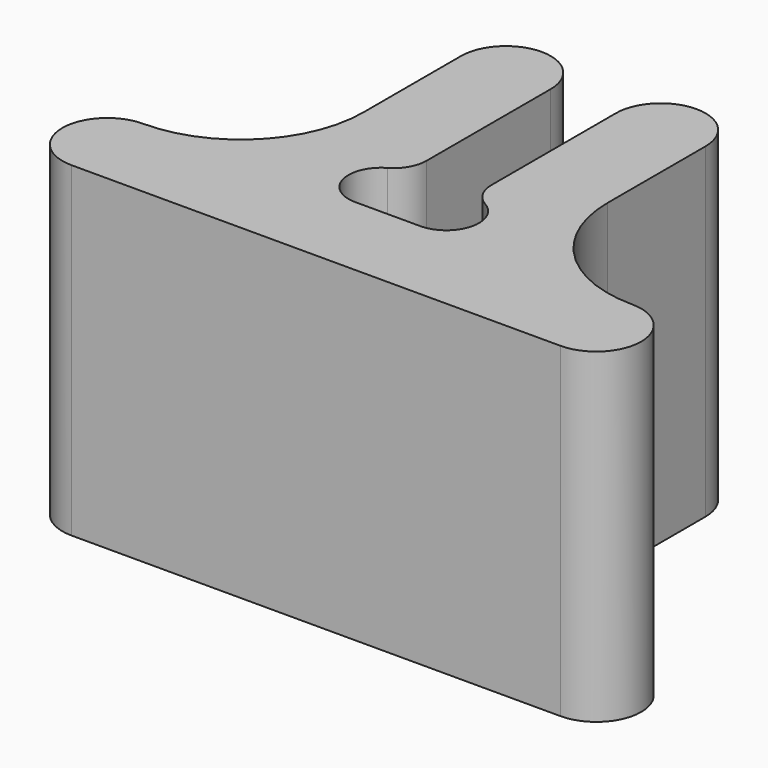
from build123d import *

# Parameters (mm, degrees)
PAD_DEPTH = 20


with BuildPart() as part:
    # Sketch → Pad (new body)
    with BuildSketch(Plane.XY):
        with BuildLine():
            Line((0, 5.5), (2, 5.5))
            ThreePointArc((2, 5.5), (3.931852, 6.982362), (3, 9.232051))
            ThreePointArc((2, 10.964102), (2.267949, 9.964102), (3, 9.232051))
            Line((2, 10.964102), (2, 20.5))
            ThreePointArc((7.5, 20.5), (4.75, 23.25), (2, 20.5))
            Line((7.5, 20.5), (7.5, 13))
            ThreePointArc((7.5, 13), (9.696699, 7.696699), (15, 5.5))
            ThreePointArc((15, 0), (17.75, 2.75), (15, 5.5))
            Line((15, 0), (0, 0))
            Line((0, 5.5), (0, 0))
        make_face()
    pad = extrude(amount=PAD_DEPTH)

    # Mirrored: Pad across Sketch V_Axis
    add(pad.mirror(Plane(origin=(0, 0, 0), x_dir=(0, 0, 1), z_dir=(1, 0, 0))))


solid = part.part
